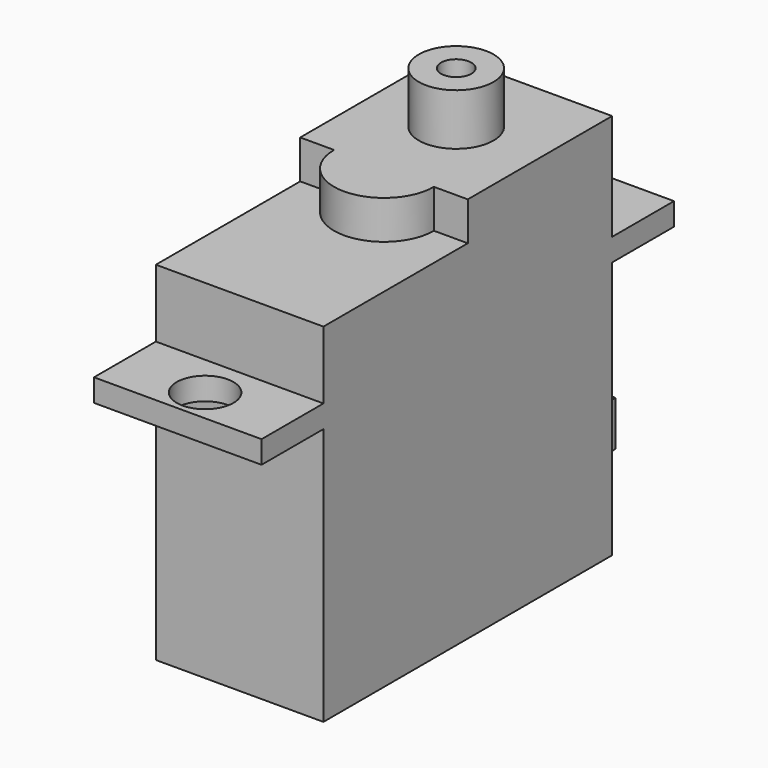
from build123d import *

# Parameters (mm, degrees)
CYLINDER001_R     = 2.2
CYLINDER001_DEPTH = 5
CYLINDER002_R     = 1.175
CYLINDER002_DEPTH = 5
BOX004_W          = 5.5
BOX004_H          = 5
BOX004_DEPTH      = 3.5
CYLINDER_R        = 2.9
CYLINDER_DEPTH    = 4
BOX003_W          = 13
BOX003_H          = 14
BOX003_DEPTH      = 7
BOX002_W          = 13
BOX002_H          = 14
BOX002_DEPTH      = 10
BOX001_W          = 13
BOX001_H          = 40
BOX001_DEPTH      = 1.75
BOX_W             = 13
BOX_H             = 28
BOX_DEPTH         = 20
CYLINDER003_W     = 3.875
CYLINDER003_H     = 3
CYLINDER003_ANGLE = 180


with BuildPart() as taladro_master:
    # Cylinder001 → Cylinder001 (new body)
    with BuildSketch(Plane(origin=(0, -17.35, 18), x_dir=(1, 0, 0), z_dir=(0, 0, 1))):
        Circle(CYLINDER001_R)
    extrude(amount=CYLINDER001_DEPTH)


with BuildPart() as obj1:
    # Cylinder002 → Cylinder002 (new body)
    with BuildSketch(Plane(origin=(0, 7, 29.5), x_dir=(1, 0, 0), z_dir=(0, 0, 1))):
        Circle(CYLINDER002_R)
    extrude(amount=CYLINDER002_DEPTH)


with BuildPart() as fusion_huecos:
    # Part__Mirroring: instance of Taladro master
    add(taladro_master.part.mirror(Plane(origin=(0, 0, 0), x_dir=(1, 0, 0), z_dir=(0, 1, 0))))

    # Fusion001: union Taladro master, obj1
    add(taladro_master.part)
    add(obj1.part)


with BuildPart() as obj2:
    # Box004 → Box004 (new body)
    with BuildSketch(Plane(origin=(3.75, 28, 4), x_dir=(1, 0, 0), z_dir=(0, 0, 1))):
        with Locations((2.75, 2.5)):
            Rectangle(BOX004_W, BOX004_H)
    extrude(amount=BOX004_DEPTH)


with BuildPart() as cilindro:
    # Cylinder → Cylinder (new body)
    with BuildSketch(Plane(origin=(6.5, 21, 30), x_dir=(1, 0, 0), z_dir=(0, 0, 1))):
        Circle(CYLINDER_R)
    extrude(amount=CYLINDER_DEPTH)


with BuildPart() as obj3:
    # Box003 → Box003 (new body)
    with BuildSketch(Plane.XY.offset(20)):
        with Locations((6.5, 7)):
            Rectangle(BOX003_W, BOX003_H)
    extrude(amount=BOX003_DEPTH)


with BuildPart() as cubo_eje:
    # Box002 → Box002 (new body)
    with BuildSketch(Plane(origin=(0, 14, 20), x_dir=(1, 0, 0), z_dir=(0, 0, 1))):
        with Locations((6.5, 7)):
            Rectangle(BOX002_W, BOX002_H)
    extrude(amount=BOX002_DEPTH)


with BuildPart() as obj4:
    # Box001 → Box001 (new body)
    with BuildSketch(Plane(origin=(0, -6, 20), x_dir=(1, 0, 0), z_dir=(0, 0, 1))):
        with Locations((6.5, 20)):
            Rectangle(BOX001_W, BOX001_H)
    extrude(amount=BOX001_DEPTH)


with BuildPart() as obj5:
    # Box → Box (new body)
    with BuildSketch(Plane.XY):
        with Locations((6.5, 14)):
            Rectangle(BOX_W, BOX_H)
    extrude(amount=BOX_DEPTH)


with BuildPart() as servo_hd1160a_master:
    # Cylinder003 → Cylinder003 (revolve)
    with BuildSketch(Plane(origin=(6.5, 14, 27), x_dir=(-1, 0, 0), z_dir=(0, 1, 0))):
        with Locations((1.9375, 1.5)):
            Rectangle(CYLINDER003_W, CYLINDER003_H)
    revolve(axis=Axis((6.5, 14, 27), (0, 0, 1)), revolution_arc=CYLINDER003_ANGLE)

    # Fusion: union obj2, Cilindro, obj3, Cubo eje, obj4, obj5
    add(obj2.part)
    add(cilindro.part)
    add(obj3.part)
    add(cubo_eje.part)
    add(obj4.part)
    add(obj5.part)


with BuildPart() as servo_hd1160a_master_1:
    # Fusion placement: moved
    add(servo_hd1160a_master.part.moved(Location((-6.5, -14, 0))))

    # Cut: cut Fusion huecos
    add(fusion_huecos.part, mode=Mode.SUBTRACT)


with BuildPart() as servo_hd1160a_master_2:
    # Cut placement: moved
    add(servo_hd1160a_master_1.part.moved(Location((0, -7, 0))))


solid = servo_hd1160a_master_2.part
